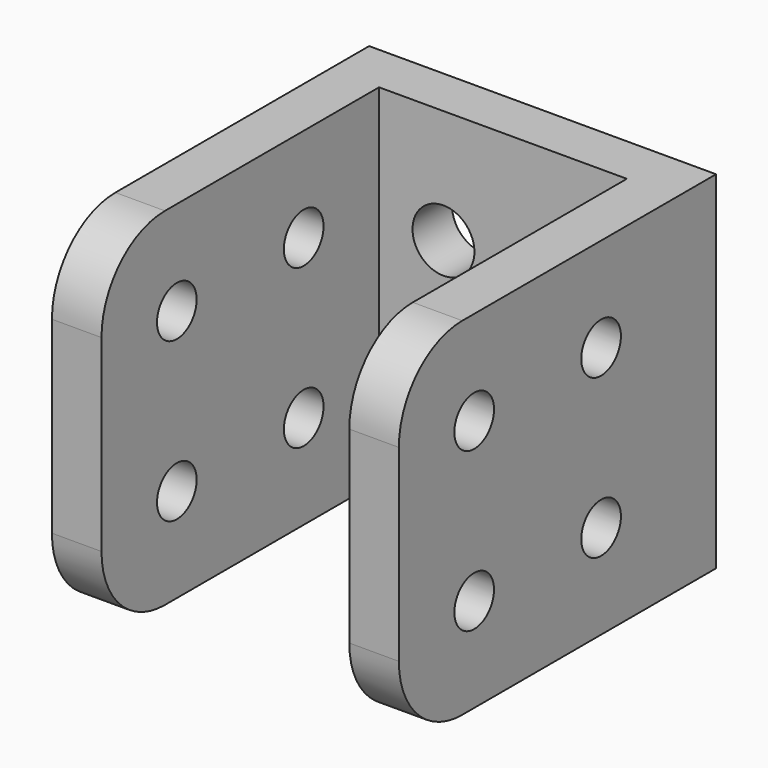
from build123d import *

# Parameters (mm, degrees)
F0_W     = 15.875
F0_H     = 22.225
F0_R     = 1.984375
F1_DEPTH = 3.175
F0_W_2   = 3.175
F2_DEPTH = 25.4
F3_R     = 1.5875
F4_DEPTH = 22.226
F5_R     = 5.08


with BuildPart() as f1:
    # F0 (on Front) → F1 (new body)
    with BuildSketch(Plane.XZ):
        Rectangle(F0_W, F0_H)
        with Locations((-3.81, -3.81)):
            Circle(F0_R, mode=Mode.SUBTRACT)
        with Locations((3.81, -3.81)):
            Circle(F0_R, mode=Mode.SUBTRACT)
        with Locations((-3.81, 3.81)):
            Circle(F0_R, mode=Mode.SUBTRACT)
        with Locations((3.81, 3.81)):
            Circle(F0_R, mode=Mode.SUBTRACT)
    extrude(amount=F1_DEPTH)

    # F0 (on Front) → F2 (join)
    with BuildSketch(Plane.XZ):
        with Locations((9.525, 0)):
            Rectangle(F0_W_2, F0_H)
        with Locations((-9.525, 0)):
            Rectangle(F0_W_2, F0_H)
    extrude(amount=F2_DEPTH)

    # F3 (on face) → F4 (cut, through all)
    with BuildSketch(Plane.YZ.offset(11.1125)):
        with Locations((-19.3675, 5.08)):
            Circle(F3_R)
        with Locations((-9.2075, 5.08)):
            Circle(F3_R)
        with Locations((-9.2075, -5.08)):
            Circle(F3_R)
        with Locations((-19.3675, -5.08)):
            Circle(F3_R)
    extrude(amount=-F4_DEPTH, mode=Mode.SUBTRACT)

    # F5
    f5_edges = [f1.edges().sort_by_distance(p)[0] for p in [
        (9.525, -25.4, 11.1125),
        (-9.525, -25.4, 11.1125),
        (9.525, -25.4, -11.1125),
        (-9.525, -25.4, -11.1125),
    ]]
    fillet(f5_edges, radius=F5_R)


solid = f1.part
